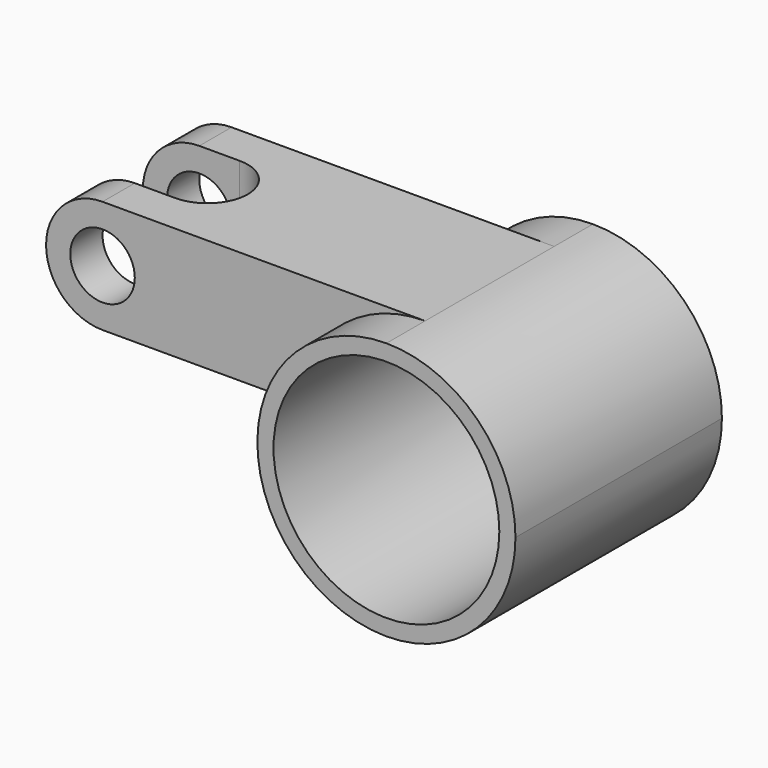
from build123d import *

# Parameters (mm, degrees)
F0_R     = 14
F1_DEPTH = 16
F0_R_2   = 4
F2_DEPTH = 10
F3_W     = 10
F3_H     = 10
F4_DEPTH = 25


with BuildPart() as f1:
    # F0 (on Front) → F1 (new body, symmetric)
    with BuildSketch(Plane.XZ):
        with BuildLine():
            ThreePointArc((7.437397, 2), (22.309938, -15.968596), (39.311905, 0))
            ThreePointArc((39.311905, 0), (34.625613, 11.313708), (23.311905, 16))
            ThreePointArc((23.311905, 16), (12.7289, 12), (7.437397, 2))
        make_face()
        with Locations((23.311905, 0)):
            Circle(F0_R, mode=Mode.SUBTRACT)
    extrude(amount=F1_DEPTH, both=True)

    # F0 (on Front) → F2 (join, symmetric)
    with BuildSketch(Plane.XZ):
        with BuildLine():
            ThreePointArc((7.437397, 2), (12.7289, 12), (23.311905, 16))
            Line((23.311905, 16), (-16.688095, 16))
            ThreePointArc((-16.688095, 16), (-23.688095, 9), (-16.688095, 2))
            Line((-16.688095, 2), (7.437397, 2))
        make_face()
        with Locations((-16.688095, 9)):
            Circle(F0_R_2, mode=Mode.SUBTRACT)
    extrude(amount=F2_DEPTH, both=True)

    # F3 (on face) → F4 (cut)
    with BuildSketch(Plane.XY.offset(16)):
        with Locations((-21.688095, 0)):
            Rectangle(F3_W, F3_H)
        with BuildLine():
            Line((-11.688095, 5), (-16.688095, 5))
            Line((-16.688095, 5), (-16.688095, -5))
            Line((-16.688095, -5), (-11.688095, -5))
            ThreePointArc((-11.688095, -5), (-6.688095, 0), (-11.688095, 5))
        make_face()
    extrude(amount=-F4_DEPTH, mode=Mode.SUBTRACT)


solid = f1.part
